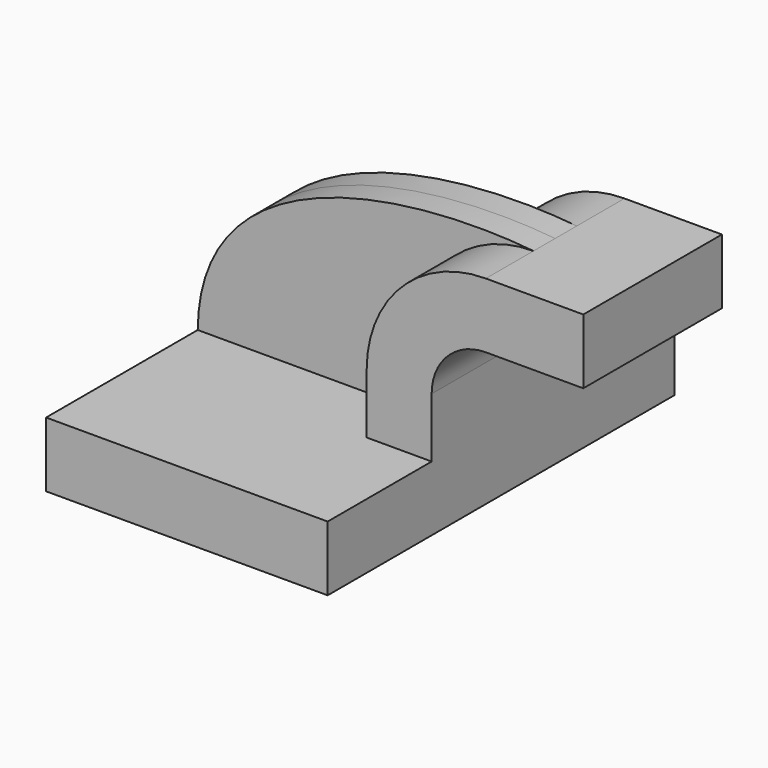
from build123d import *

# Parameters (mm, degrees)
F1_DEPTH = 63.5
F0_W     = 25.4
F0_H     = 19.05
F2_DEPTH = 25.4
F3_DEPTH = 7.9375


with BuildPart() as f1:
    # F0 (on Front) → F1 (new body, symmetric)
    with BuildSketch(Plane.XZ):
        Polygon((41.275, -9.525), (41.275, 9.525), (22.225, 9.525), (-41.275, 9.525), (-41.275, -9.525), align=None)
    extrude(amount=F1_DEPTH, both=True)

    # F0 (on Front) → F2 (join, symmetric)
    with BuildSketch(Plane.XZ):
        with BuildLine():
            Line((22.225, 9.525), (41.275, 9.525))
            Line((41.275, 9.525), (41.275, 27.0002))
            ThreePointArc((41.275, 27.0002), (45.9246798487, 38.2255201513), (57.15, 42.8752))
            Line((57.15, 42.8752), (60.325, 42.8752))
            Line((60.325, 42.8752), (60.325, 61.9252))
            Line((60.325, 61.9252), (57.15, 61.9252))
            ThreePointArc((57.15, 61.9252), (32.4542956671, 51.6959043329), (22.225, 27.0002))
            Line((22.225, 27.0002), (22.225, 9.525))
        make_face()
        with Locations((73.025, 52.4002)):
            Rectangle(F0_W, F0_H)
    extrude(amount=F2_DEPTH, both=True)

    # F0 (on Front) → F3 (join, symmetric)
    with BuildSketch(Plane.XZ):
        with BuildLine():
            Line((-41.275, 9.525), (22.225, 9.525))
            Line((22.225, 9.525), (22.225, 27.0002))
            ThreePointArc((22.225, 27.0002), (32.4542956671, 51.6959043329), (57.15, 61.9252))
            add(Edge.make_bspline(
                [(-41.275, 9.525), (-40.8389680088, 57.1731589735), (19.1717255543, 65.6824364242), (57.15, 61.9252)],
                knots=[0, 0, 0, 0, 111.5045361635, 111.5045361635, 111.5045361635, 111.5045361635], degree=3))
        make_face()
    extrude(amount=F3_DEPTH, both=True)


solid = f1.part
